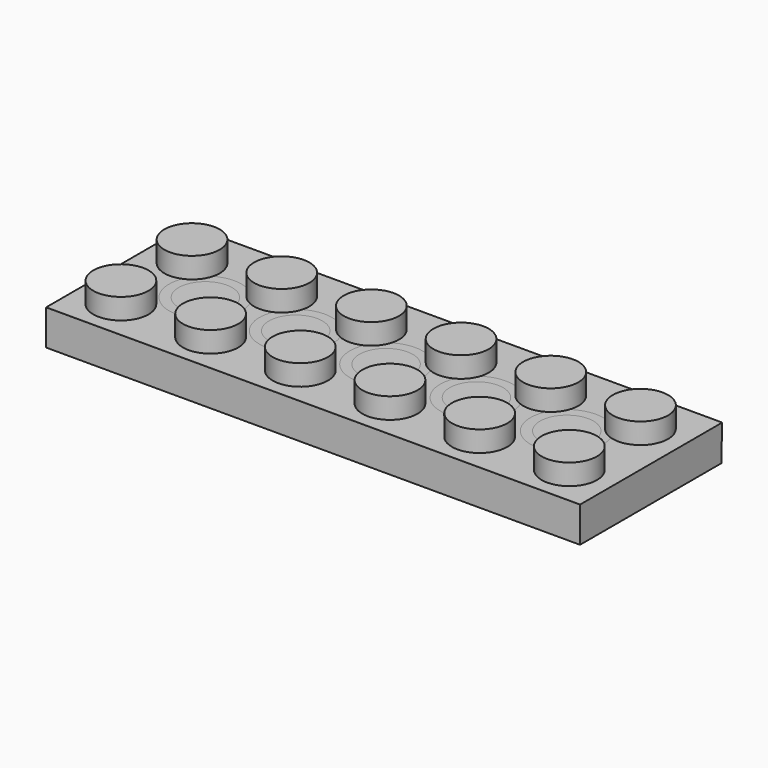
from build123d import *

# Parameters (mm, degrees)
F0_W     = 47.81
F0_H     = 15.84
F1_DEPTH = 3.17
F2_R     = 2.475
F3_DEPTH = 1.86
F4_W     = 44.91
F4_H     = 12.94
F5_DEPTH = 25
F6_W     = 47.755738
F6_H     = 15.822249
F7_DEPTH = 1.5
F8_R     = 3.245
F8_R_2   = 2.395
F9_DEPTH = 3


with BuildPart() as f1:
    # F0 (on Top) → F1 (new body)
    with BuildSketch(Plane.XY):
        with Locations((-20.259412, -4.784918)):
            Rectangle(F0_W, F0_H)
    extrude(amount=-F1_DEPTH)

    # F2 (on Top) → F3 (join)
    with BuildSketch(Plane.XY):
        with Locations((-40.379412, -1.099918)):
            Circle(F2_R)
        with Locations((-32.349412, -1.099918)):
            Circle(F2_R)
        with Locations((-24.319412, -1.099918)):
            Circle(F2_R)
        with Locations((-16.289412, -1.099918)):
            Circle(F2_R)
        with Locations((-8.259412, -1.099918)):
            Circle(F2_R)
        with Locations((-0.229412, -1.099918)):
            Circle(F2_R)
        with Locations((-40.379412, -9.059918)):
            Circle(F2_R)
        with Locations((-32.349412, -9.059918)):
            Circle(F2_R)
        with Locations((-24.319412, -9.059918)):
            Circle(F2_R)
        with Locations((-16.289412, -9.059918)):
            Circle(F2_R)
        with Locations((-8.259412, -9.059918)):
            Circle(F2_R)
        with Locations((-0.229412, -9.059918)):
            Circle(F2_R)
    extrude(amount=F3_DEPTH)

    # F4 (on Top) → F5 (cut)
    with BuildSketch(Plane.XY):
        with Locations((-20.259412, -4.784918)):
            Rectangle(F4_W, F4_H)
    extrude(amount=-F5_DEPTH, mode=Mode.SUBTRACT)


with BuildPart() as f7:
    # F6 (on Top) → F7 (new body)
    with BuildSketch(Plane.XY):
        with Locations((-20.258886, -4.702678)):
            Rectangle(F6_W, F6_H)
    extrude(amount=-F7_DEPTH)


with BuildPart() as f9:
    # F8 (on Top) → F9 (new body)
    with BuildSketch(Plane.XY):
        with Locations((-36.405881, -4.574933)):
            Circle(F8_R)
        with Locations((-36.405881, -4.574933)):
            Circle(F8_R_2, mode=Mode.SUBTRACT)
        with Locations((-28.315881, -4.574933)):
            Circle(F8_R)
        with Locations((-28.315881, -4.574933)):
            Circle(F8_R_2, mode=Mode.SUBTRACT)
        with Locations((-20.225881, -4.574933)):
            Circle(F8_R)
        with Locations((-20.225881, -4.574933)):
            Circle(F8_R_2, mode=Mode.SUBTRACT)
        with Locations((-12.135881, -4.574933)):
            Circle(F8_R)
        with Locations((-12.135881, -4.574933)):
            Circle(F8_R_2, mode=Mode.SUBTRACT)
        with Locations((-4.045881, -4.574933)):
            Circle(F8_R)
        with Locations((-4.045881, -4.574933)):
            Circle(F8_R_2, mode=Mode.SUBTRACT)
    extrude(amount=-F9_DEPTH)


solid = Compound([f1.part, f7.part, f9.part])
